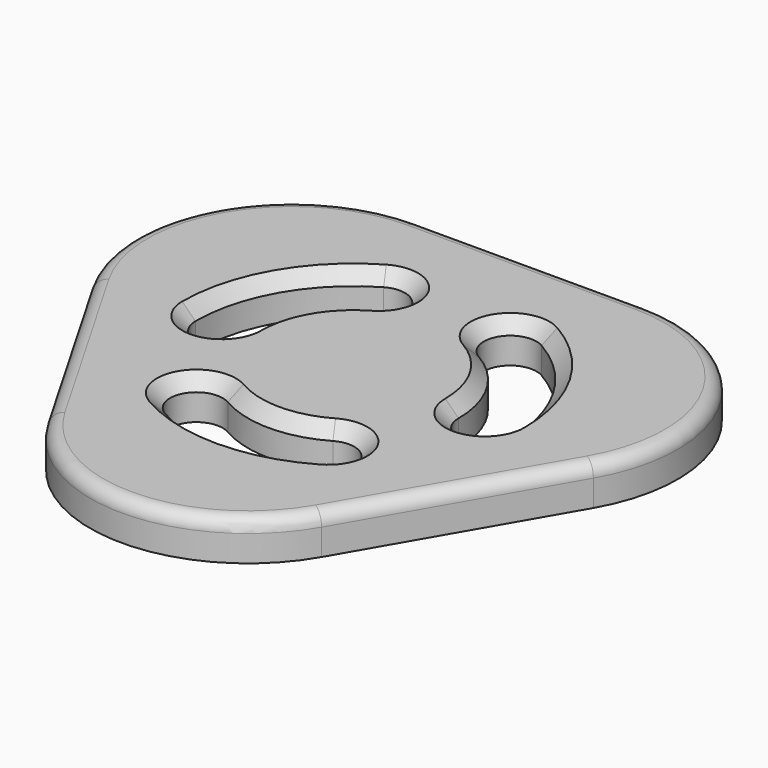
from build123d import *

# Parameters (mm, degrees)
PAD_DEPTH          = 30
POCKET_DEPTH       = 1167.961349
POLARPATTERN_COUNT = 3
CHAMFER_SIZE       = 10
FILLET_R           = 10


with BuildPart() as part:
    # Sketch → Pad (new body)
    with BuildSketch(Plane.XY):
        with BuildLine():
            Line((103.923048, -160), (190.525589, -10))
            ThreePointArc((190.525589, -10), (190.525589, 110), (86.60254, 170))
            Line((86.60254, 170), (-86.60254, 170))
            ThreePointArc((-86.60254, 170), (-190.525589, 110), (-190.525589, -10))
            Line((-190.525589, -10), (-103.923048, -160))
            ThreePointArc((-103.923048, -160), (0, -220), (103.923048, -160))
        make_face()
    extrude(amount=PAD_DEPTH)

    # Sketch001 (on Face8 of Pad) → Pocket (cut, through all)
    with BuildSketch(Plane.XY.offset(30)):
        with BuildLine():
            ThreePointArc((-40, -69.282032), (-67.320508, -76.60254), (-60, -103.923048))
            ThreePointArc((-60, -103.923048), (0, -120), (60, -103.923048))
            ThreePointArc((60, -103.923048), (67.320508, -76.60254), (40, -69.282032))
            ThreePointArc((-40, -69.282032), (0, -80), (40, -69.282032))
        make_face()
    pocket = extrude(amount=-POCKET_DEPTH, mode=Mode.SUBTRACT)

    # PolarPattern: Pocket ×3 about axis
    polarpattern_axis = Axis((0, 0, 30), (0, 0, 1))
    for i in range(1, POLARPATTERN_COUNT):
        add(pocket.rotate(polarpattern_axis, i * 360 / POLARPATTERN_COUNT), mode=Mode.SUBTRACT)

    # Chamfer
    chamfer_edges = [part.edges().sort_by_distance(p)[0] for p in [
        (69.282032, 40, 30),
        (0, -80, 30),
        (-69.282032, 40, 30),
    ]]
    chamfer(chamfer_edges, length=CHAMFER_SIZE)

    # Fillet
    fillet_edges = [part.edges().sort_by_distance(p)[0] for p in [
        (0, -220, 30),
    ]]
    fillet(fillet_edges, radius=FILLET_R)


solid = part.part
